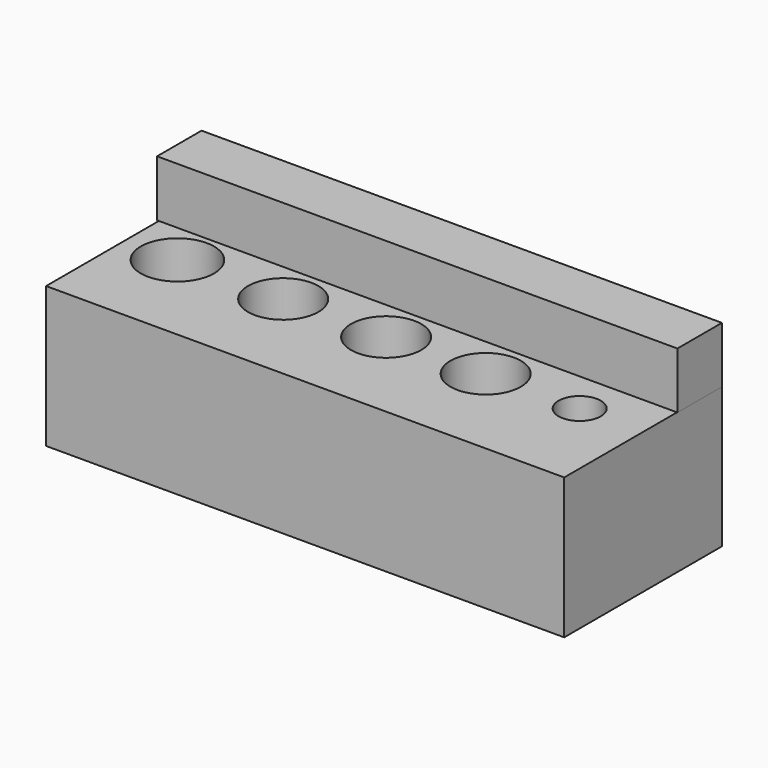
from build123d import *

# Parameters (mm, degrees)
F0_W     = 183.989095
F0_H     = 70
F0_R     = 13
F0_R_2   = 12.5
F0_R_3   = 7.5
F1_DEPTH = 25
F3_W     = 184.775144
F3_H     = 19.743571
F4_DEPTH = 20


with BuildPart() as f1:
    # F0 (on Top) → F1 (new body, symmetric)
    with BuildSketch(Plane.XY):
        with Locations((-25.660478, 0)):
            Rectangle(F0_W, F0_H)
        with Locations((-99.011004, 0)):
            Circle(F0_R, mode=Mode.SUBTRACT)
        with Locations((-61.463751, 0)):
            Circle(F0_R_2, mode=Mode.SUBTRACT)
        with Locations((-24.909729, 0)):
            Circle(F0_R_2, mode=Mode.SUBTRACT)
        with Locations((10.437321, 0)):
            Circle(F0_R_2, mode=Mode.SUBTRACT)
        with Locations((43.818854, 0)):
            Circle(F0_R_3, mode=Mode.SUBTRACT)
    extrude(amount=F1_DEPTH, both=True)

    # F3 (on face) → F4 (join)
    with BuildSketch(Plane.XY.offset(25)):
        with Locations((-25.907151, 24.936939)):
            Rectangle(F3_W, F3_H)
    extrude(amount=F4_DEPTH)


solid = f1.part
